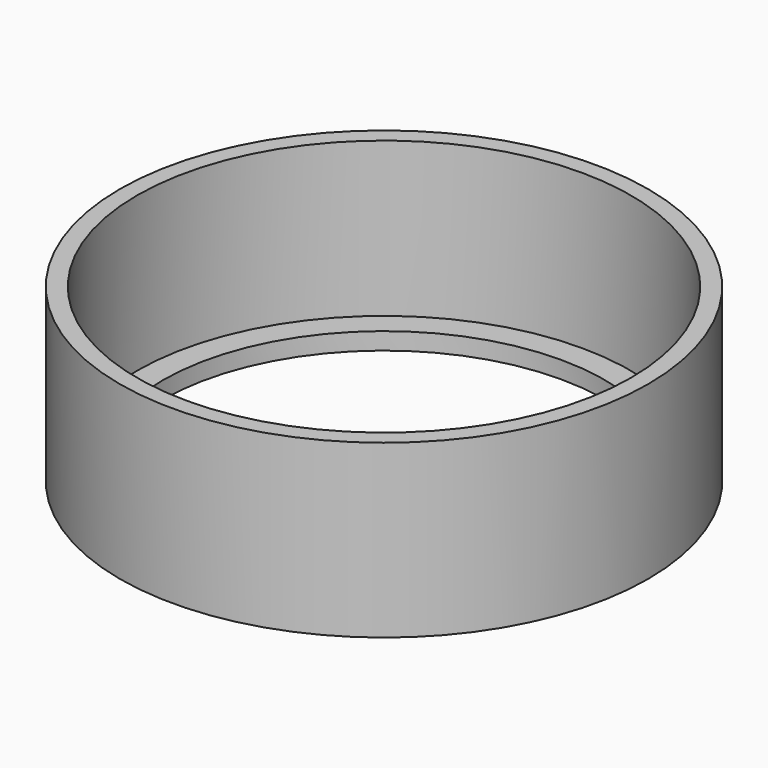
from build123d import *

# Parameters (mm, degrees)
F0_R     = 39.116
F1_DEPTH = 25.4
F2_T     = -2.54
F3_R     = 32.766
F4_DEPTH = 25.4


with BuildPart() as f1:
    # F0 (on Top) → F1 (new body)
    with BuildSketch(Plane.XY):
        Circle(F0_R)
    extrude(amount=F1_DEPTH)

    # F2
    f2_openings = [f1.faces().sort_by_distance(p)[0] for p in [
        (0, 0, 25.4),
    ]]
    offset(amount=F2_T, openings=f2_openings)

    # F3 (on face) → F4 (cut)
    with BuildSketch(Plane(origin=(0, 0, 0), x_dir=(1, 0, 0), z_dir=(0, 0, -1))):
        Circle(F3_R)
    extrude(amount=-F4_DEPTH, mode=Mode.SUBTRACT)


solid = f1.part
